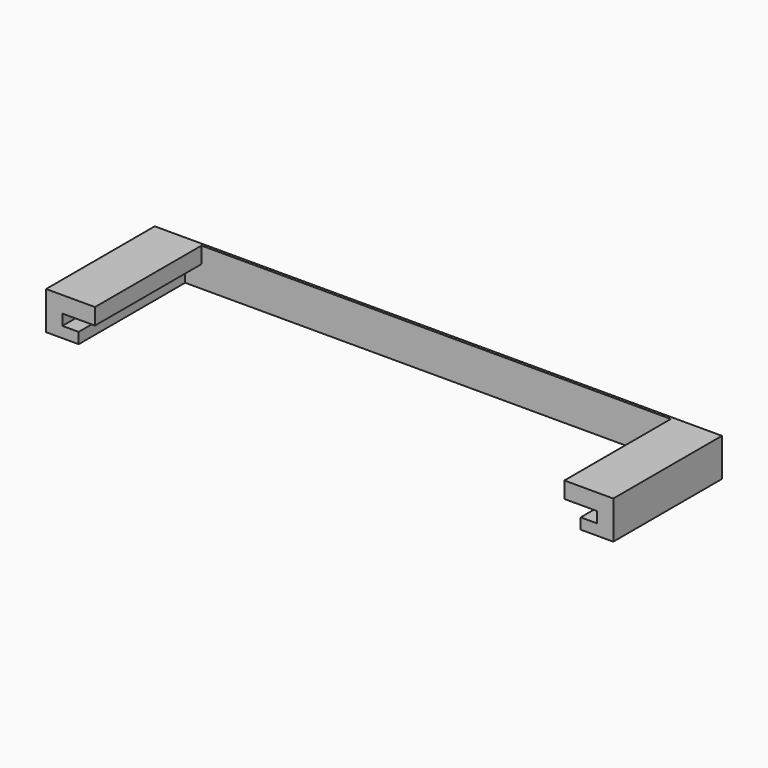
from build123d import *

# Parameters (mm, degrees)
F1_W     = 104.4
F1_H     = 7
F2_DEPTH = 0.5
F0_W     = 6
F0_H     = 3
F0_W_2   = 3
F0_H_2   = 2
F3_DEPTH = 25


with BuildPart() as f2:
    # F1 (on Front) → F2 (new body)
    with BuildSketch(Plane.XZ):
        Rectangle(F1_W, F1_H)
    extrude(amount=F2_DEPTH)

    # F0 (on Front) → F3 (join)
    with BuildSketch(Plane.XZ):
        with Locations((-46.2, 2)):
            Rectangle(F0_W, F0_H)
        Polygon((-49.2, 0.5), (-49.2, 3.5), (-52.2, 3.5), (-52.2, -3.5), (-49.2, -3.5), (-49.2, -1.5), align=None)
        with Locations((-47.7, -2.5)):
            Rectangle(F0_W_2, F0_H_2)
        Polygon((52.2, 3.5), (49.2, 3.5), (49.2, 0.5), (49.2, -1.5), (49.2, -3.5), (52.2, -3.5), align=None)
        with Locations((46.2, 2)):
            Rectangle(F0_W, F0_H)
        with Locations((47.7, -2.5)):
            Rectangle(F0_W_2, F0_H_2)
    extrude(amount=F3_DEPTH)


solid = f2.part
